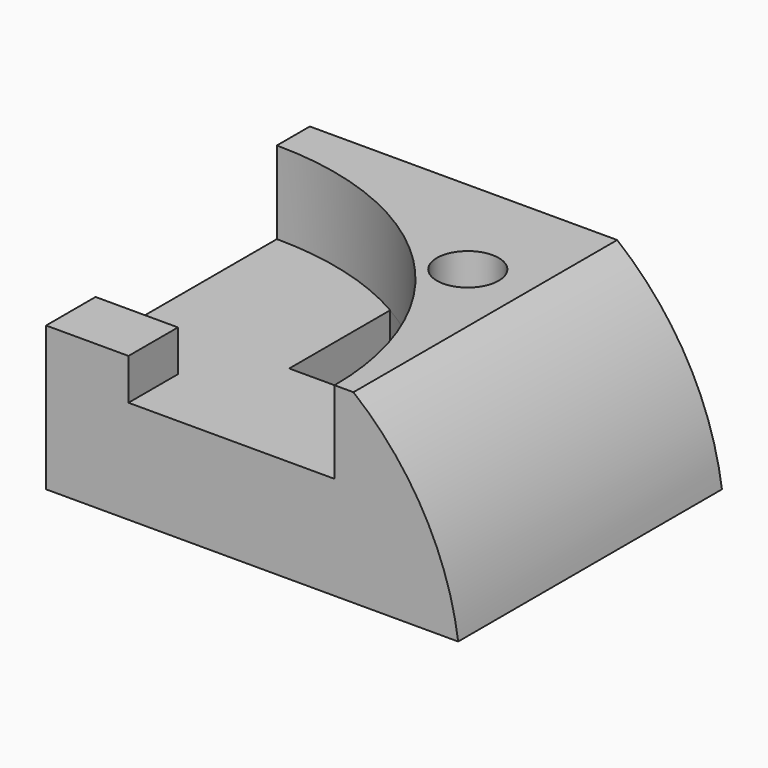
from build123d import *

# Parameters (mm, degrees)
F0_W      = 100
F0_H      = 80
F1_DEPTH  = 45
F2_R      = 7.5
F3_DEPTH  = 30
F4_R      = 70
F5_DEPTH  = 20
F6_W      = 20
F6_H      = 15
F7_DEPTH  = 10
F9_DEPTH  = 25.001
F11_DEPTH = 80.001


with BuildPart() as f1:
    # F0 (on Top) → F1 (new body)
    with BuildSketch(Plane.XY):
        with Locations((50, 40)):
            Rectangle(F0_W, F0_H)
    extrude(amount=F1_DEPTH)

    # F2 (on face) → F3 (cut)
    with BuildSketch(Plane.XY.offset(45)):
        with Locations((60, 52.916668)):
            Circle(F2_R)
    extrude(amount=-F3_DEPTH, mode=Mode.SUBTRACT)

    # F4 (on face) → F5 (cut)
    with BuildSketch(Plane.XY.offset(45)):
        Circle(F4_R)
    extrude(amount=-F5_DEPTH, mode=Mode.SUBTRACT)

    # F6 (on face) → F7 (join)
    with BuildSketch(Plane.XY.offset(25)):
        with Locations((10, 7.5)):
            Rectangle(F6_W, F6_H)
    extrude(amount=F7_DEPTH)

    # F8 (on face) → F9 (cut, through all)
    with BuildSketch(Plane.XY.offset(25)):
        with BuildLine():
            ThreePointArc((63.245553, 30), (51.453576, 47.460821), (35, 60.621778))
            Line((35, 60.621778), (35, 30))
            Line((35, 30), (63.245553, 30))
        make_face()
    extrude(amount=-F9_DEPTH, mode=Mode.SUBTRACT)

    # F10 (on face) → F11 (cut, through all)
    with BuildSketch(Plane.XZ):
        with BuildLine():
            ThreePointArc((74.583337, 45), (91.596706, 24.931549), (100, 0))
            Line((100, 0), (100, 45))
            Line((100, 45), (74.583337, 45))
        make_face()
    extrude(amount=-F11_DEPTH, mode=Mode.SUBTRACT)


solid = f1.part
